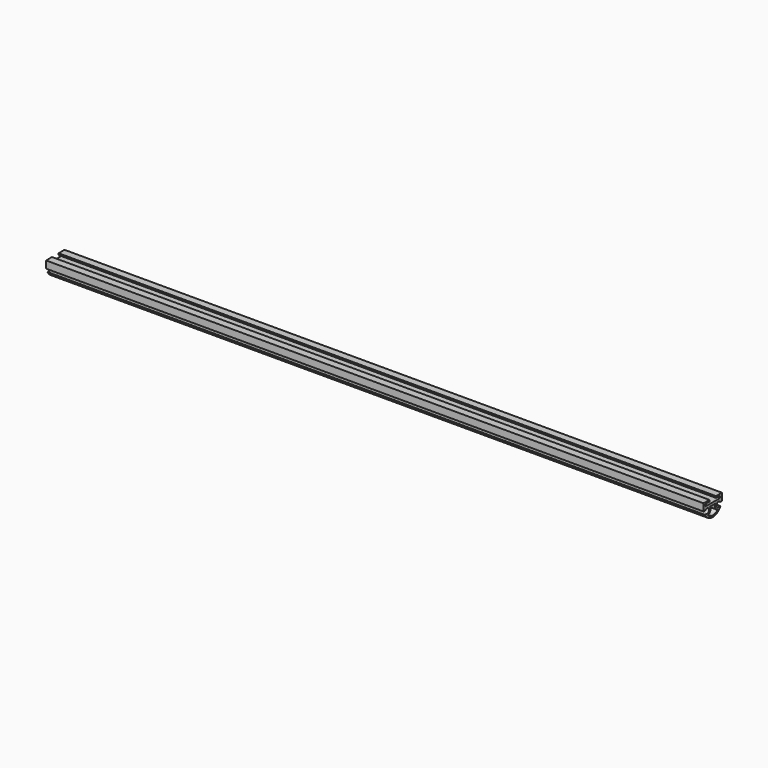
from build123d import *

# Parameters (mm, degrees)
F1_DEPTH = 1270


with BuildPart() as f1:
    # F0 (on Right) → F1 (new body, symmetric)
    with BuildSketch(Plane.YZ):
        with BuildLine():
            Line((35.304151, 10.688412), (0, 10.688412))
            Line((0, 10.688412), (-35.304151, 10.688412))
            Line((-35.304151, 10.688412), (-35.304151, 19.109586))
            Line((-35.304151, 19.109586), (-15.870672, 19.109586))
            Line((-15.870672, 19.109586), (-15.870672, 25.371484))
            Line((-15.870672, 25.371484), (-44.483658, 25.371484))
            Line((-44.483658, 25.371484), (-44.483658, -2.52704))
            Line((-44.483658, -2.52704), (-35.160912, -2.52704))
            ThreePointArc((-35.160912, -2.52704), (-19.046534, -3.106739), (-27.314832, -16.950311))
            Line((-27.314832, -16.950311), (-37.086638, -16.950311))
            ThreePointArc((-37.086638, -16.950311), (-21.858444, -33.835168), (0, -40.096533))
            ThreePointArc((0, -40.096533), (21.858444, -33.835168), (37.086638, -16.950311))
            Line((37.086638, -16.950311), (27.314832, -16.950311))
            ThreePointArc((27.314832, -16.950311), (19.046534, -3.106739), (35.160912, -2.52704))
            Line((35.160912, -2.52704), (44.483658, -2.52704))
            Line((44.483658, -2.52704), (44.483658, 25.371484))
            Line((44.483658, 25.371484), (15.870672, 25.371484))
            Line((15.870672, 25.371484), (15.870672, 19.109586))
            Line((15.870672, 19.109586), (35.304151, 19.109586))
            Line((35.304151, 19.109586), (35.304151, 10.688412))
        make_face()
        with BuildLine():
            ThreePointArc((0, -33.74653), (-13.127273, -31.18632), (-24.330462, -23.880943))
            ThreePointArc((-24.330462, -23.880943), (-12.138941, -14.282542), (-13.331355, 1.188095))
            Line((-13.331355, 1.188095), (0, 1.188095))
            Line((0, 1.188095), (13.331355, 1.188095))
            ThreePointArc((13.331355, 1.188095), (12.138941, -14.282542), (24.330462, -23.880943))
            ThreePointArc((24.330462, -23.880943), (13.127273, -31.18632), (0, -33.74653))
        make_face(mode=Mode.SUBTRACT)
    extrude(amount=F1_DEPTH, both=True)


solid = f1.part
